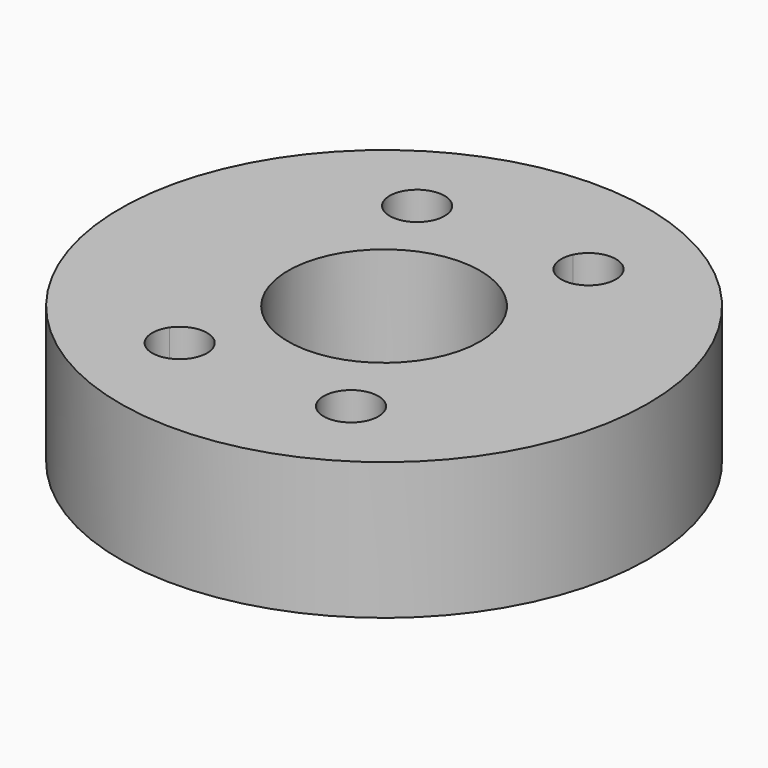
from build123d import *

# Parameters (mm, degrees)
F0_R     = 19.25
F0_R_2   = 7
F1_DEPTH = 10


with BuildPart() as f1:
    # F0 (on Top) → F1 (new body)
    with BuildSketch(Plane.XY):
        Circle(F0_R)
        with BuildLine():
            ThreePointArc((7.896499, 9.689959), (11.290621, 5.363942), (12.5, 0))
            ThreePointArc((12.5, 0), (11.290621, -5.363942), (7.896499, -9.689959))
            ThreePointArc((7.896499, -9.689959), (8.159581, -10.230758), (8.25, -10.825318))
            ThreePointArc((8.25, -10.825318), (6.689887, -12.776343), (4.443501, -11.683548))
            ThreePointArc((4.443501, -11.683548), (0, -12.5), (-4.443501, -11.683548))
            ThreePointArc((-4.443501, -11.683548), (-7.25, -12.557368), (-7.896499, -9.689959))
            ThreePointArc((-7.896499, -9.689959), (-12.5, 0), (-7.896499, 9.689959))
            ThreePointArc((-7.896499, 9.689959), (-7.25, 12.557368), (-4.443501, 11.683548))
            ThreePointArc((-4.443501, 11.683548), (0, 12.5), (4.443501, 11.683548))
            ThreePointArc((4.443501, 11.683548), (6.689887, 12.776343), (8.25, 10.825318))
            ThreePointArc((8.25, 10.825318), (8.159581, 10.230758), (7.896499, 9.689959))
        make_face(mode=Mode.SUBTRACT)
        with BuildLine():
            ThreePointArc((7.896499, -9.689959), (11.290621, -5.363942), (12.5, 0))
            ThreePointArc((12.5, 0), (11.290621, 5.363942), (7.896499, 9.689959))
            ThreePointArc((7.896499, 9.689959), (5.25, 9.093267), (4.443501, 11.683548))
            ThreePointArc((4.443501, 11.683548), (0, 12.5), (-4.443501, 11.683548))
            ThreePointArc((-4.443501, 11.683548), (-4.298975, 11.265205), (-4.25, 10.825318))
            ThreePointArc((-4.25, 10.825318), (-5.655441, 8.915737), (-7.896499, 9.689959))
            ThreePointArc((-7.896499, 9.689959), (-12.5, 0), (-7.896499, -9.689959))
            ThreePointArc((-7.896499, -9.689959), (-5.655441, -8.915737), (-4.25, -10.825318))
            ThreePointArc((-4.25, -10.825318), (-4.298975, -11.265205), (-4.443501, -11.683548))
            ThreePointArc((-4.443501, -11.683548), (0, -12.5), (4.443501, -11.683548))
            ThreePointArc((4.443501, -11.683548), (5.25, -9.093267), (7.896499, -9.689959))
        make_face()
        Circle(F0_R_2, mode=Mode.SUBTRACT)
    extrude(amount=F1_DEPTH)


solid = f1.part
